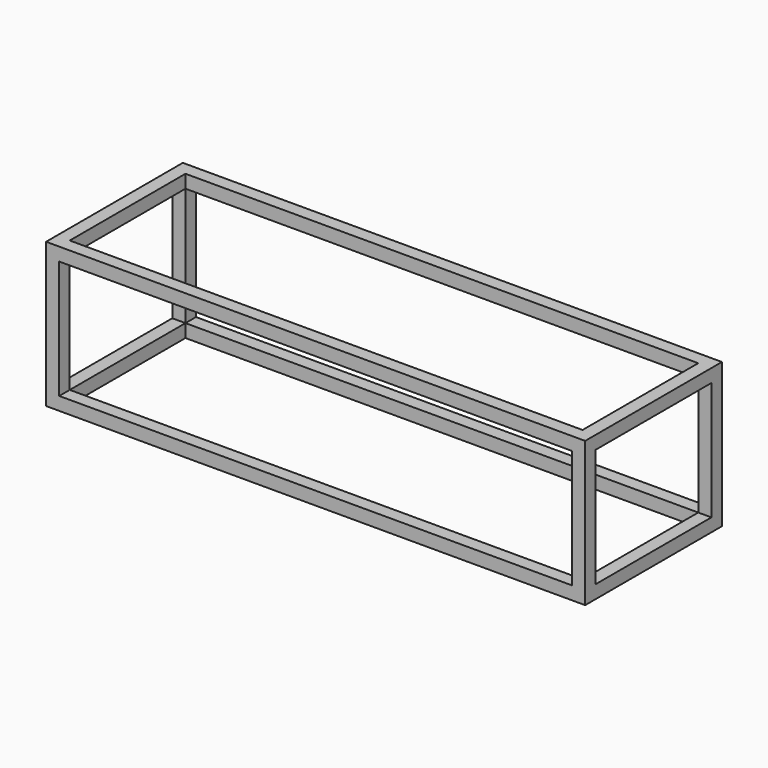
from build123d import *

# Parameters (mm, degrees)
F1_W     = 50
F1_H     = 50
F4_W     = 50
F4_H     = 50
F5_DEPTH = 450


with BuildPart() as f2:
    # F2: sweep along a path in F0
    with BuildLine(Plane.XY) as f2_path:
        Line((-969.0792792215, 199.0843022242), (1030.9207207785, 199.0843022242))
        Line((1030.9207207785, 199.0843022242), (1030.9207207785, -400.9156977758))
        Line((1030.9207207785, -400.9156977758), (-969.0792792215, -400.9156977758))
        Line((-969.0792792215, -400.9156977758), (-969.0792792215, 199.0843022242))
    # F1 (on Right) → F2 (sweep)
    with BuildSketch(Plane.YZ):
        with Locations((199.0843022242, 0)):
            Rectangle(F1_W, F1_H)
    sweep(path=f2_path.line, transition=Transition.RIGHT)


with BuildPart() as f3_1:
    # F3: copy of F2
    add(f2.part.moved(Location((0, 0, 500))))


with BuildPart() as f2_1:
    add(f2.part)

    add(f3_1.part)  # F5 merges F3_1
    # F4 (on face) → F5 (join, through all)
    with BuildSketch(Plane.XY.offset(25)):
        with Locations((-969.0792792215, 199.0843022242)):
            Rectangle(F4_W, F4_H)
        with Locations((-969.0792792215, -400.9156977758)):
            Rectangle(F4_W, F4_H)
        with Locations((1030.9207207785, -400.9156977758)):
            Rectangle(F4_W, F4_H)
        with Locations((1030.9207207785, 199.0843022242)):
            Rectangle(F4_W, F4_H)
    extrude(amount=F5_DEPTH)


solid = f2_1.part
